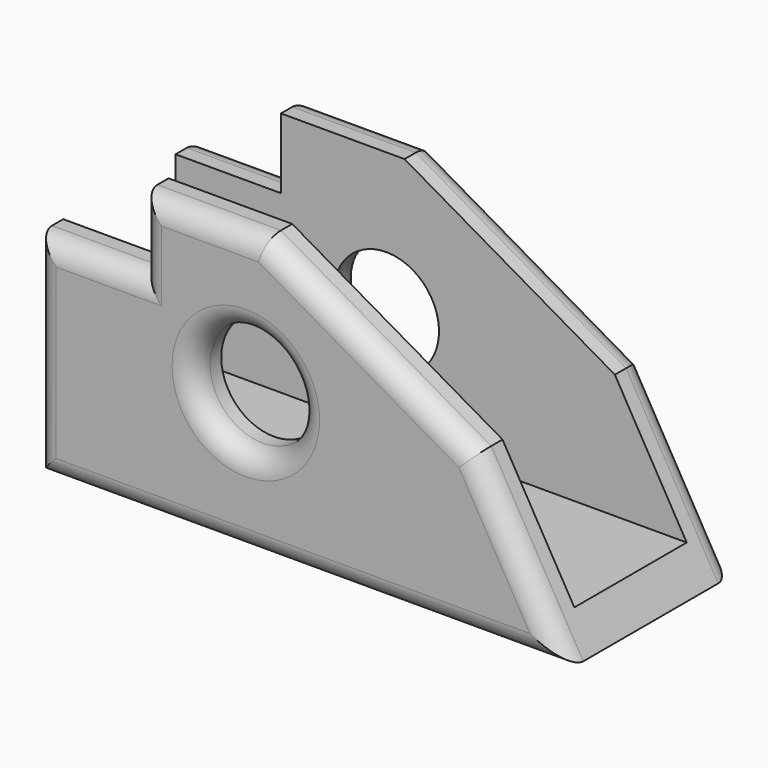
from build123d import *

# Parameters (mm, degrees)
F1_DEPTH = 38.1
F3_D     = 19.05
F4_W     = 19.05
F4_H     = 12.7
F5_DEPTH = 38.101
F6_W     = 25.4
F6_H     = 50.8172035844
F7_DEPTH = 52.1778825103
F8_DEPTH = 43.9057145722
F9_R     = 3.81
F10_R    = 3.81


with BuildPart() as f1:
    # F0 (on Front) → F1 (new body)
    with BuildSketch(Plane.XZ):
        Polygon((-10.7748825103, 15.1617240763), (-52.1768825103, 15.1617240763), (-52.1768825103, -35.6382759237), (43.9047145722, -35.6382759237), (27.2504226012, -6.7921960659), align=None)
    extrude(amount=F1_DEPTH)

    # F3 (through all)
    with Locations(Plane(origin=(0, 0, 0), x_dir=(1, 0, 0), z_dir=(0, 1, 0))):
        with Locations((-14.0768825103, 10.2382759237)):
            Hole(F3_D / 2)

    # F4 (on face) → F5 (cut, through all)
    with BuildSketch(Plane.XZ.offset(38.1)):
        with Locations((-42.6518825103, 8.8117240763)):
            Rectangle(F4_W, F4_H)
    extrude(amount=-F5_DEPTH, mode=Mode.SUBTRACT)

    # F6 (on Right) → F7 (cut, through all)
    with BuildSketch(Plane.YZ):
        with Locations((-19.05, -3.8796741316)):
            Rectangle(F6_W, F6_H)
    extrude(amount=-F7_DEPTH, mode=Mode.SUBTRACT)

    # F8 (cut, through all): a face of the model
    f8_faces = [f1.faces().sort_by_distance(p)[0] for p in [
        (0, -19.05, -10.1737165826),
    ]]
    extrude(f8_faces, amount=-F8_DEPTH, mode=Mode.SUBTRACT)

    # F9
    f9_edges = [f1.edges().sort_by_distance(p)[0] for p in [
        (8.23777, -38.1, 4.184764),
        (35.577569, -38.1, -21.215236),
        (-4.136084, -38.1, -35.638276),
        (-52.176883, -38.1, -16.588276),
        (-42.651883, -38.1, 2.461724),
        (-33.126883, -38.1, 8.811724),
        (-21.950883, -38.1, 15.161724),
        (-23.601883, -38.1, -10.238276),
    ]]
    fillet(f9_edges, radius=F9_R)

    # F10
    f10_edges = [f1.edges().sort_by_distance(p)[0] for p in [
        (8.23777, 0, 4.184764),
        (35.577569, 0, -21.215236),
        (-4.136084, 0, -35.638276),
        (-52.176883, 0, -16.588276),
        (-42.651883, 0, 2.461724),
        (-33.126883, 0, 8.811724),
        (-21.950883, 0, 15.161724),
        (-23.601883, 0, -10.238276),
    ]]
    fillet(f10_edges, radius=F10_R)


solid = f1.part
